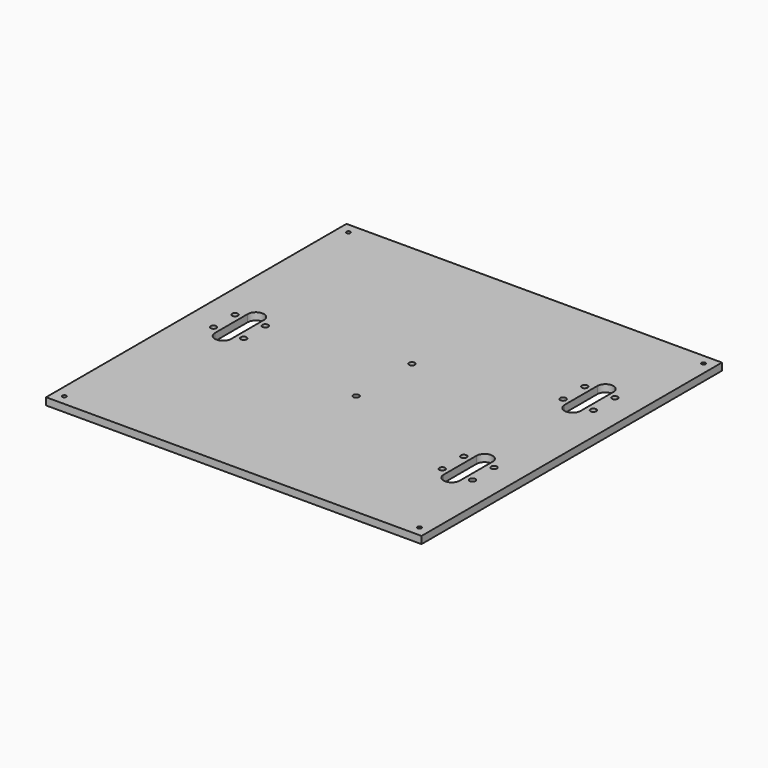
from build123d import *

# Parameters (mm, degrees)
F0_W     = 220.98
F0_H     = 220.98
F1_DEPTH = 4.2672
F3_D     = 2.2606
F5_DEPTH = 4.2682
F7_D     = 3.4
F9_D     = 3.4


with BuildPart() as f1:
    # F0 (on Top) → F1 (new body)
    with BuildSketch(Plane.XY):
        with Locations((110.49, 110.49)):
            Rectangle(F0_W, F0_H)
    extrude(amount=F1_DEPTH)

    # F3 (through all)
    with Locations(Plane.XY.offset(4.2672)):
        with Locations((5.99, 214.99), (214.99, 214.99), (214.99, 5.99), (5.99, 5.99)):
            Hole(F3_D / 2)

    # F4 (on face) → F5 (cut, through all)
    with BuildSketch(Plane.XY.offset(4.2672)):
        with BuildLine():
            ThreePointArc((30.1625, 122.555), (25.4, 127.3175), (20.6375, 122.555))
            Line((20.6375, 122.555), (20.6375, 98.425))
            ThreePointArc((20.6375, 98.425), (25.4, 93.6625), (30.1625, 98.425))
            Line((30.1625, 98.425), (30.1625, 122.555))
        make_face()
        with BuildLine():
            ThreePointArc((200.3425, 78.105), (195.58, 82.8675), (190.8175, 78.105))
            Line((190.8175, 78.105), (190.8175, 53.975))
            ThreePointArc((190.8175, 53.975), (195.58, 49.2125), (200.3425, 53.975))
            Line((200.3425, 53.975), (200.3425, 78.105))
        make_face()
        with BuildLine():
            Line((200.3425, 142.875), (200.3425, 167.005))
            ThreePointArc((200.3425, 167.005), (195.58, 171.7675), (190.8175, 167.005))
            Line((190.8175, 167.005), (190.8175, 142.875))
            ThreePointArc((190.8175, 142.875), (195.58, 138.1125), (200.3425, 142.875))
        make_face()
    extrude(amount=-F5_DEPTH, mode=Mode.SUBTRACT)

    # F7 (through all)
    with Locations(Plane.XY.offset(4.2672)):
        with Locations((110.49, 130.99), (110.49, 89.99)):
            Hole(F7_D / 2)

    # F9 (through all)
    with Locations(Plane.XY.offset(4.2672)):
        with Locations((16.51, 118.4275), (16.51, 102.5525), (34.29, 118.4275), (34.29, 102.5525), (204.47, 162.8775), (186.69, 147.0025), (186.69, 162.8775), (204.47, 147.0025), (204.47, 73.9775), (186.69, 58.1025), (204.47, 58.1025), (186.69, 73.9775)):
            Hole(F9_D / 2)


solid = f1.part
